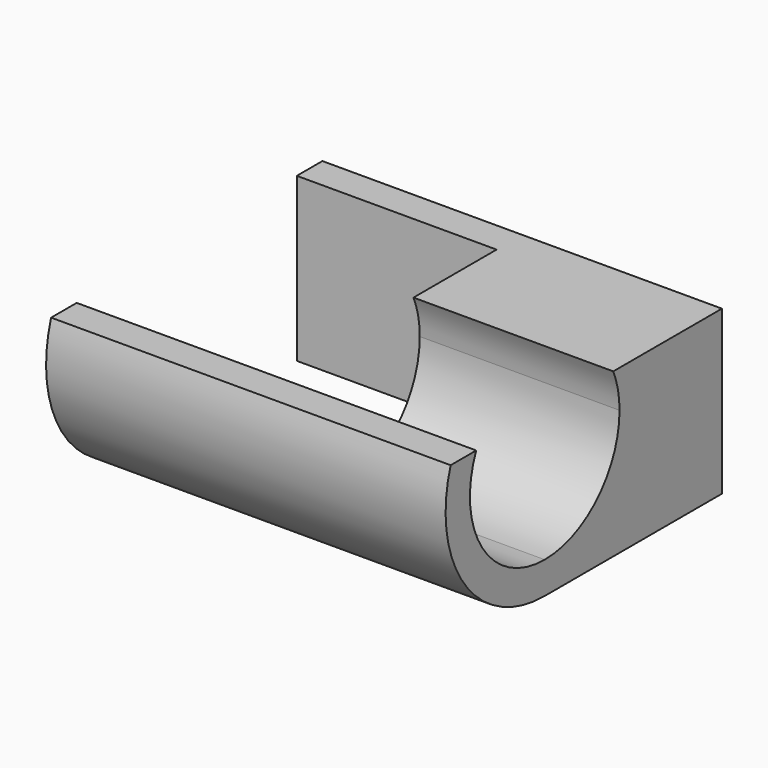
from build123d import *

# Parameters (mm, degrees)
F1_DEPTH = 25
F2_DEPTH = 50
F0_W     = 4
F0_H     = 20.390722
F3_DEPTH = 50


with BuildPart() as f1:
    # F0 (on Right) → F1 (new body)
    with BuildSketch(Plane.YZ):
        with BuildLine():
            ThreePointArc((9.40047, 4.690722), (10.133936, 2.39615), (10.381929, 0))
            ThreePointArc((10.381929, 0), (6.955078, -8.273149), (-1.318071, -11.7))
            Line((-1.318071, -11.7), (-1.318071, -15.7))
            ThreePointArc((-1.318071, -15.7), (11.25588, -9.268728), (13.40047, 4.690722))
            Line((13.40047, 4.690722), (9.40047, 4.690722))
        make_face()
        with BuildLine():
            Line((22.40047, 4.690722), (13.40047, 4.690722))
            ThreePointArc((13.40047, 4.690722), (11.25588, -9.268728), (-1.318071, -15.7))
            Line((-1.318071, -15.7), (22.40047, -15.7))
            Line((22.40047, -15.7), (22.40047, 4.690722))
        make_face()
    extrude(amount=-F1_DEPTH)

    # F0 (on Right) → F2 (join)
    with BuildSketch(Plane.YZ):
        with BuildLine():
            Line((-1.318071, -15.7), (-1.318071, -11.7))
            ThreePointArc((-1.318071, -11.7), (-11.110197, -6.403458), (-12.036612, 4.690722))
            Line((-12.036612, 4.690722), (-16.036612, 4.690722))
            ThreePointArc((-16.036612, 4.690722), (-13.892023, -9.268728), (-1.318071, -15.7))
        make_face()
    extrude(amount=-F2_DEPTH)

    # F0 (on Right) → F3 (join)
    with BuildSketch(Plane.YZ):
        with Locations((24.40047, -5.504639)):
            Rectangle(F0_W, F0_H)
    extrude(amount=-F3_DEPTH)


with BuildPart() as f4_1:
    # F4: copy of F1
    add(f1.part)


with BuildPart() as f5_1:
    # F5: instance of F4_1
    add(f4_1.part.mirror(Plane(origin=(0, 10.566171, -6.716884), x_dir=(0, 1, 0), z_dir=(1, 0, 0))))


solid = f1.part
